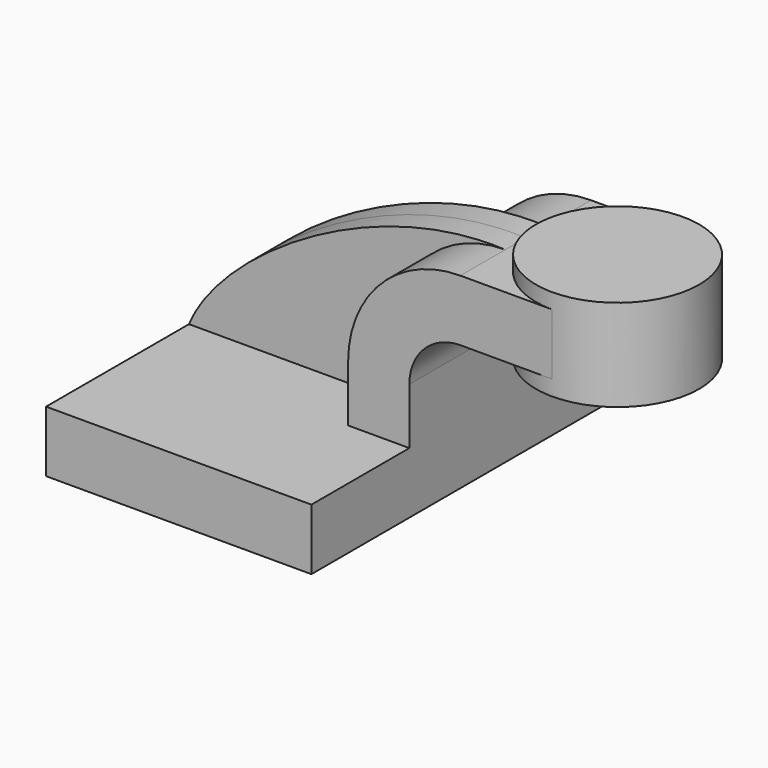
from build123d import *

# Parameters (mm, degrees)
F1_DEPTH = 63.5
F0_W     = 25.4
F0_H     = 19.05
F2_DEPTH = 25.4
F3_DEPTH = 7.9375


with BuildPart() as f1:
    # F0 (on Front) → F1 (new body, symmetric)
    with BuildSketch(Plane.XZ):
        Polygon((41.275, -9.525), (41.275, 9.525), (22.225, 9.525), (-41.275, 9.525), (-41.275, -9.525), align=None)
    extrude(amount=F1_DEPTH, both=True)

    # F0 (on Front) → F2 (join, symmetric)
    with BuildSketch(Plane.XZ):
        with BuildLine():
            Line((22.225, 9.525), (41.275, 9.525))
            Line((41.275, 9.525), (41.275, 27.0002))
            ThreePointArc((41.275, 27.0002), (45.9246798487, 38.2255201513), (57.15, 42.8752))
            Line((57.15, 42.8752), (60.325, 42.8752))
            Line((60.325, 42.8752), (60.325, 61.9252))
            Line((60.325, 61.9252), (57.15, 61.9252))
            ThreePointArc((57.15, 61.9252), (32.4542956671, 51.6959043329), (22.225, 27.0002))
            Line((22.225, 27.0002), (22.225, 9.525))
        make_face()
        with Locations((73.025, 52.4002)):
            Rectangle(F0_W, F0_H)
    extrude(amount=F2_DEPTH, both=True)

    # F0 (on Front) → F3 (join, symmetric)
    with BuildSketch(Plane.XZ):
        with BuildLine():
            Line((-41.275, 9.525), (22.225, 9.525))
            Line((22.225, 9.525), (22.225, 27.0002))
            ThreePointArc((22.225, 27.0002), (32.4542956671, 51.6959043329), (57.15, 61.9252))
            add(Edge.make_bspline(
                [(-41.275, 9.525), (-31.6697917879, 33.0327823758), (15.2440918609, 64.0094131231), (57.15, 61.9252)],
                knots=[0, 0, 0, 0, 111.5045361635, 111.5045361635, 111.5045361635, 111.5045361635], degree=3))
        make_face()
    extrude(amount=F3_DEPTH, both=True)

    # F0 (on Front) → F4 (revolve)
    with BuildSketch(Plane.XZ):
        Polygon((85.725, 61.9252), (85.725, 42.8752), (85.725, 38.1), (111.125, 38.1), (111.125, 66.675), (85.725, 66.675), align=None)
    revolve(axis=Axis((85.725, 0, 52.3875), (0, 0, -1)))


solid = f1.part
